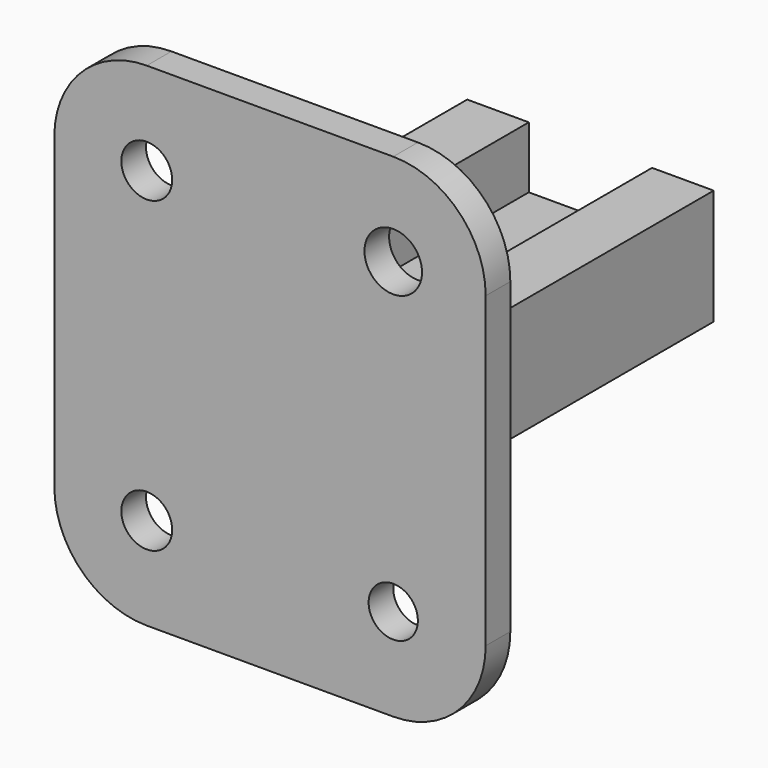
from build123d import *

# Parameters (mm, degrees)
F1_DEPTH = 60
F2_R     = 4.125
F2_R_2   = 3.996282
F2_R_3   = 4.670247
F3_DEPTH = 5
F4_R     = 4
F5_DEPTH = 50.001


with BuildPart() as f1:
    # F0 (on Front) → F1 (new body)
    with BuildSketch(Plane.XZ):
        Polygon((-20, 18.727273), (-20, 0), (20, 0), (20, 18.727273), (10, 18.727273), (10, 8.727273), (-10, 8.727273), (-10, 18.727273), align=None)
    extrude(amount=F1_DEPTH)

    # F2 (on face) → F3 (join)
    with BuildSketch(Plane.XZ.offset(60)):
        with BuildLine():
            Line((20, 50), (-20, 50))
            ThreePointArc((-20, 50), (-30.606602, 45.606602), (-35, 35))
            Line((-35, 35), (-35, -15))
            ThreePointArc((-35, -15), (-30.606602, -25.606602), (-20, -30))
            Line((-20, -30), (20, -30))
            ThreePointArc((20, -30), (30.606602, -25.606602), (35, -15))
            Line((35, -15), (35, 35))
            ThreePointArc((35, 35), (30.606602, 45.606602), (20, 50))
        make_face()
        with Locations((-20, -15)):
            Circle(F2_R, mode=Mode.SUBTRACT)
        with Locations((20, -15)):
            Circle(F2_R_2, mode=Mode.SUBTRACT)
        with Locations((-20, 35)):
            Circle(F2_R, mode=Mode.SUBTRACT)
        with Locations((20, 35)):
            Circle(F2_R_3, mode=Mode.SUBTRACT)
    extrude(amount=F3_DEPTH)

    # F4 (on Top) → F5 (cut, through all)
    with BuildSketch(Plane.XY):
        with Locations((0, -49)):
            Circle(F4_R)
        with Locations((0, -24)):
            Circle(F4_R)
    extrude(amount=F5_DEPTH, mode=Mode.SUBTRACT)


solid = f1.part
